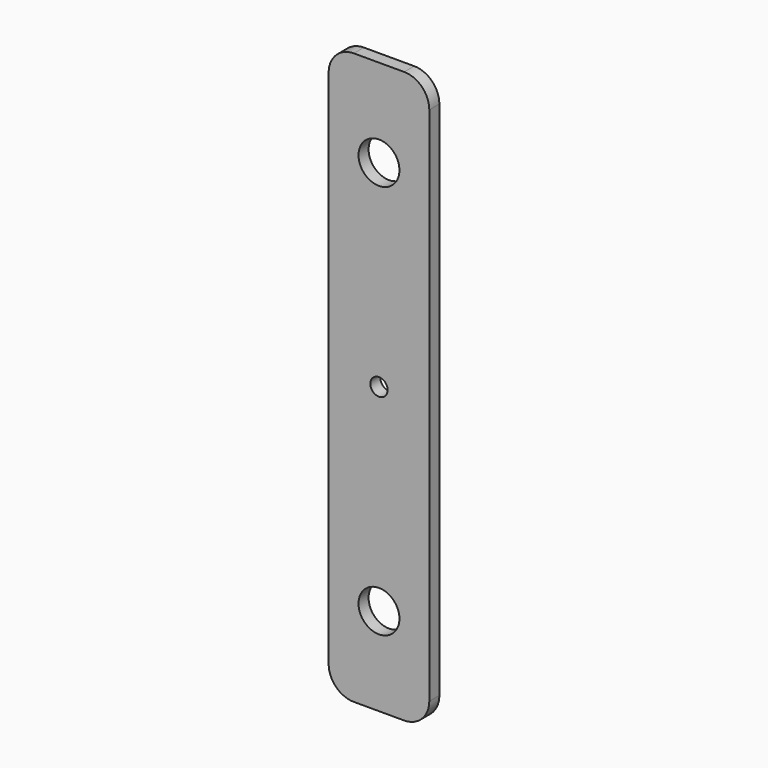
from build123d import *

# Parameters (mm, degrees)
F0_R     = 5.159375
F0_R_2   = 2.182813
F1_DEPTH = 3.175


with BuildPart() as f1:
    # F0 (on Front) → F1 (new body)
    with BuildSketch(Plane.XZ):
        with BuildLine():
            ThreePointArc((0, 6.35), (1.859872, 1.859872), (6.35, 0))
            Line((6.35, 0), (19.05, 0))
            ThreePointArc((19.05, 0), (23.540128, 1.859872), (25.4, 6.35))
            Line((25.4, 6.35), (25.4, 137.715625))
            ThreePointArc((25.4, 137.715625), (23.540128, 142.205753), (19.05, 144.065625))
            Line((19.05, 144.065625), (6.35, 144.065625))
            ThreePointArc((6.35, 144.065625), (1.859872, 142.205753), (0, 137.715625))
            Line((0, 137.715625), (0, 6.35))
        make_face()
        with Locations((12.7, 22.225)):
            Circle(F0_R, mode=Mode.SUBTRACT)
        with Locations((12.7, 72.032813)):
            Circle(F0_R_2, mode=Mode.SUBTRACT)
        with Locations((12.7, 121.840625)):
            Circle(F0_R, mode=Mode.SUBTRACT)
    extrude(amount=F1_DEPTH)


solid = f1.part
